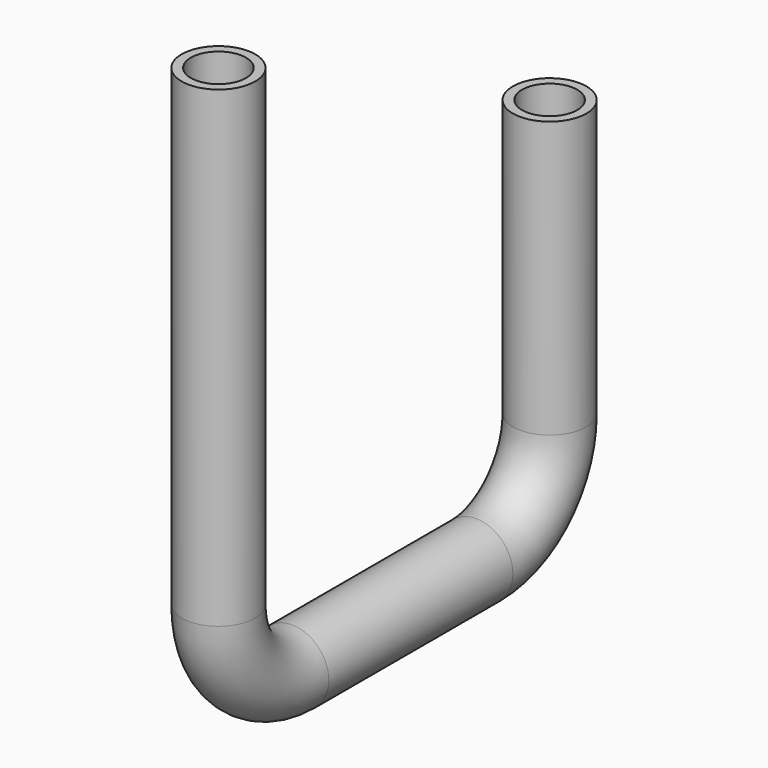
from build123d import *

# Parameters (mm, degrees)
F0_R   = 4
F0_R_2 = 3


with BuildPart() as f2:
    # F2: sweep along a path in F1
    with BuildLine(Plane.YZ) as f2_path:
        Line((0, 0), (0, -30))
        ThreePointArc((0, -30), (-2.9289321881, -37.0710678119), (-10, -40))
        Line((-10, -40), (-35, -40))
        ThreePointArc((-35, -40), (-42.0710678119, -37.0710678119), (-45, -30))
        Line((-45, -30), (-45, -3.0715101957))
        Line((-45, -3.0715101957), (-45, 21.3600527495))
    # F0 (on Top) → F2 (sweep)
    with BuildSketch(Plane.XY):
        Circle(F0_R)
        Circle(F0_R_2, mode=Mode.SUBTRACT)
    sweep(path=f2_path.line)


solid = f2.part
